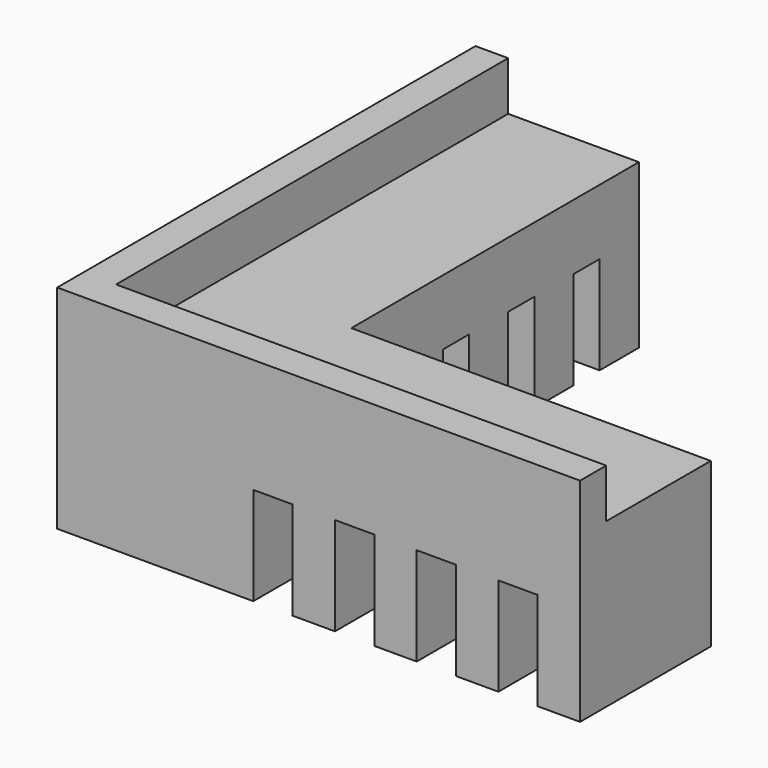
from build123d import *

# Parameters (mm, degrees)
F1_DEPTH = 13
F0_W     = 8
F0_H     = 22
F2_DEPTH = 10
F3_W     = 2.409125
F3_H     = 6
F5_DEPTH = 25
F4_W     = 2
F4_H     = 6
F6_DEPTH = 25


with BuildPart() as f1:
    # F0 (on Top) → F1 (new body)
    with BuildSketch(Plane.XY):
        Polygon((0, -8), (0, 0), (0, 22), (-2, 22), (-2, 11.907217), (-2, -10), (30, -10), (30, -8), align=None)
    extrude(amount=F1_DEPTH)

    # F0 (on Top) → F2 (join)
    with BuildSketch(Plane.XY):
        with Locations((4, 11)):
            Rectangle(F0_W, F0_H)
        Polygon((8, 0), (0, 0), (0, -8), (30, -8), (30, 0), align=None)
    extrude(amount=F2_DEPTH)

    # F3 (on face) → F5 (cut)
    with BuildSketch(Plane.XZ.offset(10)):
        with Locations((11.204562, 3)):
            Rectangle(F3_W, F3_H)
        with Locations((16.204563, 3)):
            Rectangle(F3_W, F3_H)
        with Locations((21.204563, 3)):
            Rectangle(F3_W, F3_H)
        with Locations((26.204563, 3)):
            Rectangle(F3_W, F3_H)
    extrude(amount=-F5_DEPTH, mode=Mode.SUBTRACT)

    # F4 (on face) → F6 (cut)
    with BuildSketch(Plane(origin=(-2, 0, 0), x_dir=(0, -1, 0), z_dir=(-1, 0, 0))):
        with Locations((-13, 3)):
            Rectangle(F4_W, F4_H)
        with Locations((-18, 3)):
            Rectangle(F4_W, F4_H)
        with Locations((-8, 3)):
            Rectangle(F4_W, F4_H)
        with Locations((-3, 3)):
            Rectangle(F4_W, F4_H)
    extrude(amount=-F6_DEPTH, mode=Mode.SUBTRACT)


solid = f1.part
